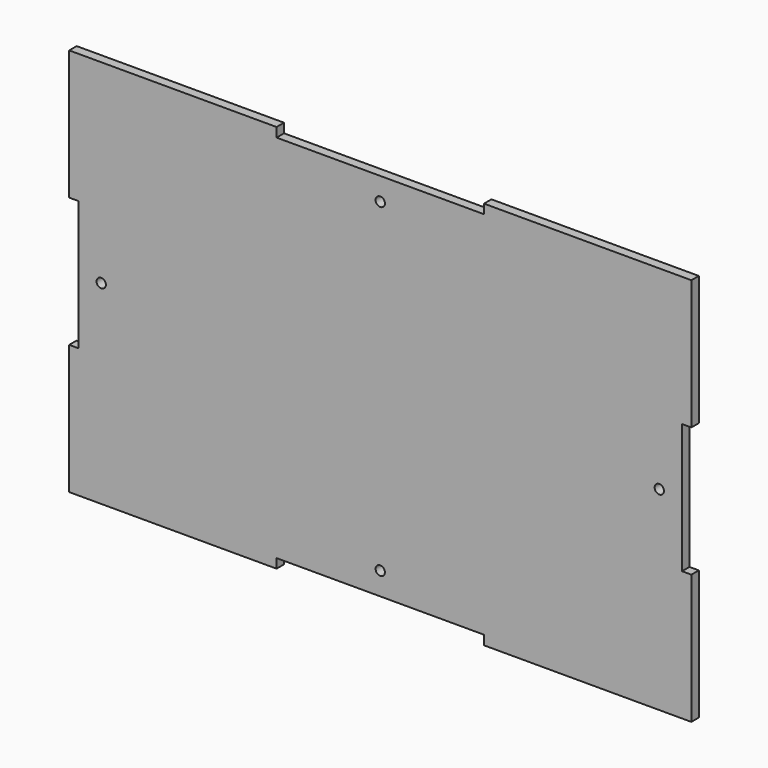
from build123d import *

# Parameters (mm, degrees)
F0_R     = 1.5
F1_DEPTH = 3


with BuildPart() as f1:
    # F0 (on Front) → F1 (new body)
    with BuildSketch(Plane.XZ):
        Polygon((-100, -20.833333), (-100, -62.5), (-33.333333, -62.5), (-33.333333, -59.5), (33.333333, -59.5), (33.333333, -62.5), (100, -62.5), (100, -20.833333), (97, -20.833333), (97, 20.833333), (100, 20.833333), (100, 62.5), (33.333333, 62.5), (33.333333, 59.5), (-33.333333, 59.5), (-33.333333, 62.5), (-100, 62.5), (-100, 20.833333), (-97, 20.833333), (-97, -20.833333), align=None)
        with Locations((0, -52.2)):
            Circle(F0_R, mode=Mode.SUBTRACT)
        with Locations((-89.7, 0)):
            Circle(F0_R, mode=Mode.SUBTRACT)
        with Locations((89.7, 0)):
            Circle(F0_R, mode=Mode.SUBTRACT)
        with Locations((0, 52.2)):
            Circle(F0_R, mode=Mode.SUBTRACT)
    extrude(amount=F1_DEPTH)


with BuildPart() as f2_1:
    # F2: copy of F1
    add(f1.part.moved(Location((0, 60, 0))))


solid = f1.part
